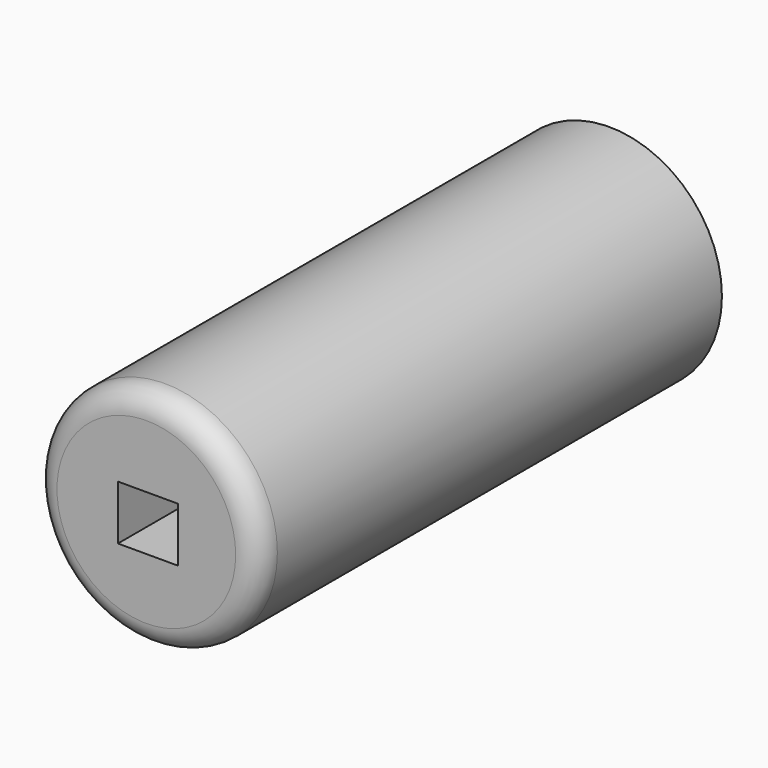
from build123d import *

# Parameters (mm, degrees)
F0_R     = 24.686614
F1_DEPTH = 127
F2_R     = 5.08
F3_W     = 13.125889
F3_H     = 11.96772
F4_DEPTH = 127.001


with BuildPart() as f1:
    # F0 (on Front) → F1 (new body)
    with BuildSketch(Plane.XZ):
        with Locations((-110.139199, 36.395181)):
            Circle(F0_R)
    extrude(amount=F1_DEPTH)

    # F2
    f2_edges = [f1.edges().sort_by_distance(p)[0] for p in [
        (-134.825813, -127, 36.395181),
    ]]
    fillet(f2_edges, radius=F2_R)

    # F3 (on face) → F4 (cut, through all)
    with BuildSketch(Plane.XZ.offset(127)):
        with Locations((-109.805476, 36.192703)):
            Rectangle(F3_W, F3_H)
    extrude(amount=-F4_DEPTH, mode=Mode.SUBTRACT)


solid = f1.part
